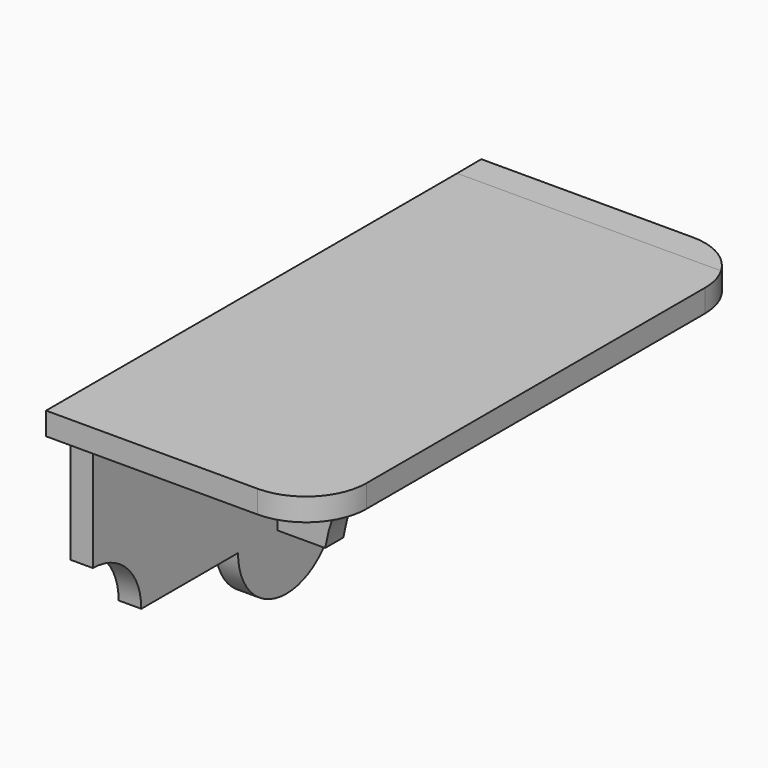
from build123d import *

# Parameters (mm, degrees)
F0_W      = 203.2
F0_H      = 9.525
F0_W_2    = 12.7
F1_DEPTH  = 114.3
F2_DEPTH  = 9.525
F3_W      = 9.525
F3_H      = 76.2
F4_DEPTH  = 88.9
F6_DEPTH  = 119.0635
F8_DEPTH  = 9.526
F10_DEPTH = 9.6059256377


with BuildPart() as f1:
    # F0 (on Right) → F1 (new body)
    with BuildSketch(Plane.YZ):
        with Locations((-2.4829334736, 39.2448874779)):
            Rectangle(F0_W, F0_H)
        Polygon((99.1170665264, 44.0073874779), (99.1170665264, 34.4823874779), (111.8170665264, 34.4823874779), (111.8170665264, 44.0873131156), align=None)
        with Locations((-110.4329334736, 39.2448874779)):
            Rectangle(F0_W_2, F0_H)
    extrude(amount=F1_DEPTH)

    # F0 (on Right) → F2 (join)
    with BuildSketch(Plane.YZ):
        Polygon((99.1170665264, 34.4823874779), (-104.0829334736, 34.4823874779), (-104.0829334736, -41.7176125221), (-27.8829334736, -41.7176125221), (22.9170665264, -41.7176125221), (99.1170665264, -41.7176125221), align=None)
        with BuildLine():
            Line((22.9170665264, -41.7176125221), (-27.8829334736, -41.7176125221))
            ThreePointArc((-27.8829334736, -41.7176125221), (-2.4829334736, -67.1176125221), (22.9170665264, -41.7176125221))
        make_face()
    extrude(amount=F2_DEPTH)

    # F3 (on face) → F4 (join)
    with BuildSketch(Plane.YZ.offset(9.525)):
        with Locations((-2.4829334736, -3.6176125221)):
            Rectangle(F3_W, F3_H)
    extrude(amount=F4_DEPTH)

    # F5 (on face) → F6 (cut, through all)
    with BuildSketch(Plane(origin=(0, 2.2795665264, 0), x_dir=(-1, 0, 0), z_dir=(0, 1, 0))):
        with BuildLine():
            ThreePointArc((-29.6407867546, -41.7176125221), (-53.2038437376, 1.6792308985), (-98.425, 21.5173431966))
            Line((-98.425, 21.5173431966), (-98.425, -41.7176125221))
            Line((-98.425, -41.7176125221), (-29.6407867546, -41.7176125221))
        make_face()
    extrude(amount=-F6_DEPTH, mode=Mode.SUBTRACT)

    # F7 (on face) → F8 (cut, through all)
    with BuildSketch(Plane.YZ.offset(9.525)):
        with BuildLine():
            Line((-104.0829334736, -41.7176125221), (-78.6829334736, -41.7176125221))
            ThreePointArc((-78.6829334736, -41.7176125221), (-86.1224212314, -23.75710028), (-104.0829334736, -16.3176125221))
            Line((-104.0829334736, -16.3176125221), (-104.0829334736, -41.7176125221))
        make_face()
        with BuildLine():
            Line((99.1170665264, -41.7176125221), (99.1170665264, -16.3176125221))
            ThreePointArc((99.1170665264, -16.3176125221), (81.1565542843, -23.75710028), (73.7170665264, -41.7176125221))
            Line((73.7170665264, -41.7176125221), (99.1170665264, -41.7176125221))
        make_face()
    extrude(amount=-F8_DEPTH, mode=Mode.SUBTRACT)

    # F9 (on face) → F10 (cut, through all)
    with BuildSketch(Plane(origin=(0, 0, 34.4823874779), x_dir=(1, 0, 0), z_dir=(0, 0, -1))):
        with BuildLine():
            ThreePointArc((88.9, 116.7829334736), (106.8605122421, 109.3434457157), (114.3, 91.3829334736))
            Line((114.3, 91.3829334736), (114.3, 116.7829334736))
            Line((114.3, 116.7829334736), (89.5812958479, 116.7829334736))
            Line((89.5812958479, 116.7829334736), (88.9, 116.7829334736))
        make_face()
        with BuildLine():
            Line((114.3, -111.8170665264), (114.3, -86.4170665264))
            ThreePointArc((114.3, -86.4170665264), (106.8605122421, -104.3775787686), (88.9, -111.8170665264))
            Line((88.9, -111.8170665264), (95.8859026432, -111.8170665264))
            Line((95.8859026432, -111.8170665264), (114.3, -111.8170665264))
        make_face()
    extrude(amount=-F10_DEPTH, mode=Mode.SUBTRACT)


solid = f1.part
